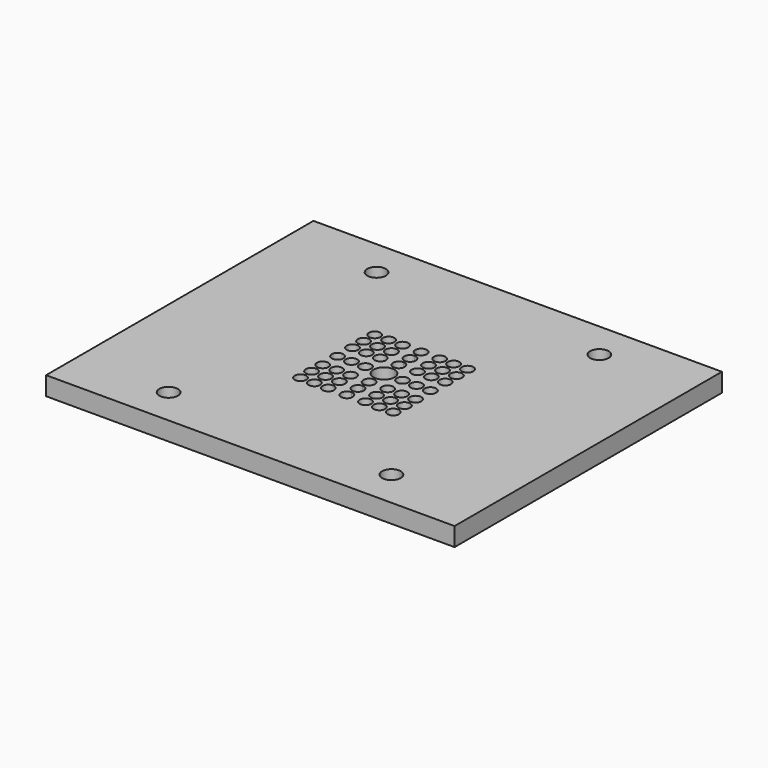
from build123d import *

# Parameters (mm, degrees)
F0_W     = 558.8
F0_H     = 457.2
F1_DEPTH = 25.4
F2_R     = 12.7
F3_DEPTH = 25.401
F4_R     = 7.9375
F4_R_2   = 14.2875
F5_DEPTH = 25.401
F7_R     = 7.9375
F7_R_2   = 4.7625
F8_DEPTH = 12.7


with BuildPart() as f1:
    # F0 (on Top) → F1 (new body)
    with BuildSketch(Plane.XY):
        Rectangle(F0_W, F0_H)
    extrude(amount=-F1_DEPTH)

    # F2 (on face) → F3 (cut, through all)
    with BuildSketch(Plane.XY):
        with BuildLine():
            ThreePointArc((-165.1, -177.8), (-152.4, -190.5), (-139.7, -177.8))
            ThreePointArc((-139.7, -177.8), (-152.4, -165.1), (-165.1, -177.8))
        make_face()
        with Locations((152.4, -177.8)):
            Circle(F2_R)
        with Locations((-152.4, 177.8)):
            Circle(F2_R)
        with Locations((152.4, 177.8)):
            Circle(F2_R)
    extrude(amount=-F3_DEPTH, mode=Mode.SUBTRACT)

    # F4 (on face) → F5 (cut, through all)
    with BuildSketch(Plane.XY):
        with Locations((25.4, 63.5)):
            Circle(F4_R)
        with Locations((25.4, 44.45)):
            Circle(F4_R)
        with Locations((25.4, 25.4)):
            Circle(F4_R)
        with Locations((44.45, 63.5)):
            Circle(F4_R)
        with Locations((63.5, 63.5)):
            Circle(F4_R)
        with Locations((44.45, 44.45)):
            Circle(F4_R)
        with Locations((63.5, 44.45)):
            Circle(F4_R)
        with Locations((44.45, 25.4)):
            Circle(F4_R)
        with Locations((63.5, 25.4)):
            Circle(F4_R)
        Circle(F4_R_2)
        with Locations((25.4, 0)):
            Circle(F4_R)
        with BuildLine():
            ThreePointArc((71.4375, 0), (63.5, 7.9375), (55.5625, 0))
            ThreePointArc((55.5625, 0), (63.5, -7.9375), (71.4375, 0))
        make_face()
        with BuildLine():
            ThreePointArc((52.3875, 0), (44.45, 7.9375), (36.5125, 0))
            Line((36.5125, 0), (52.3875, 0))
        make_face()
        with BuildLine():
            Line((52.3875, 0), (36.5125, 0))
            ThreePointArc((36.5125, 0), (44.45, -7.9375), (52.3875, 0))
        make_face()
        with BuildLine():
            ThreePointArc((0, 33.3375), (-5.61266, 19.78734), (7.9375, 25.4))
            ThreePointArc((7.9375, 25.4), (5.61266, 31.01266), (0, 33.3375))
        make_face()
        with BuildLine():
            ThreePointArc((7.9375, 63.5), (-5.61266, 69.11266), (0, 55.5625))
            ThreePointArc((0, 55.5625), (5.61266, 57.88734), (7.9375, 63.5))
        make_face()
        with BuildLine():
            ThreePointArc((0, 52.3875), (-7.9375, 44.45), (0, 36.5125))
            Line((0, 36.5125), (0, 52.3875))
        make_face()
        with BuildLine():
            Line((0, 52.3875), (0, 36.5125))
            ThreePointArc((0, 36.5125), (5.61266, 38.83734), (7.9375, 44.45))
            ThreePointArc((7.9375, 44.45), (5.61266, 50.06266), (0, 52.3875))
        make_face()
        with Locations((-25.4, 44.45)):
            Circle(F4_R)
        with Locations((-25.4, 63.5)):
            Circle(F4_R)
        with Locations((-44.45, 63.5)):
            Circle(F4_R)
        with Locations((-63.5, 63.5)):
            Circle(F4_R)
        with Locations((-63.5, 44.45)):
            Circle(F4_R)
        with Locations((-63.5, 25.4)):
            Circle(F4_R)
        with Locations((-44.45, 25.4)):
            Circle(F4_R)
        with Locations((-25.4, 25.4)):
            Circle(F4_R)
        with Locations((-44.45, 44.45)):
            Circle(F4_R)
        with BuildLine():
            ThreePointArc((7.9375, -25.4), (-5.61266, -19.78734), (0, -33.3375))
            ThreePointArc((0, -33.3375), (5.61266, -31.01266), (7.9375, -25.4))
        make_face()
        with BuildLine():
            ThreePointArc((0, -36.5125), (-7.9375, -44.45), (0, -52.3875))
            Line((0, -52.3875), (0, -36.5125))
        make_face()
        with BuildLine():
            Line((0, -36.5125), (0, -52.3875))
            ThreePointArc((0, -52.3875), (5.61266, -50.06266), (7.9375, -44.45))
            ThreePointArc((7.9375, -44.45), (5.61266, -38.83734), (0, -36.5125))
        make_face()
        with BuildLine():
            ThreePointArc((7.9375, -63.5), (5.61266, -57.88734), (0, -55.5625))
            ThreePointArc((0, -55.5625), (-5.61266, -69.11266), (7.9375, -63.5))
        make_face()
        with Locations((-25.4, -25.4)):
            Circle(F4_R)
        with Locations((-63.5, -44.45)):
            Circle(F4_R)
        with Locations((-44.45, -63.5)):
            Circle(F4_R)
        with Locations((-25.4, -63.5)):
            Circle(F4_R)
        with Locations((-25.4, -44.45)):
            Circle(F4_R)
        with Locations((-63.5, -63.5)):
            Circle(F4_R)
        with Locations((-44.45, -25.4)):
            Circle(F4_R)
        with Locations((25.4, -63.5)):
            Circle(F4_R)
        with Locations((25.4, -44.45)):
            Circle(F4_R)
        with Locations((-63.5, -25.4)):
            Circle(F4_R)
        with Locations((25.4, -25.4)):
            Circle(F4_R)
        with Locations((44.45, -63.5)):
            Circle(F4_R)
        with Locations((63.5, -63.5)):
            Circle(F4_R)
        with Locations((44.45, -44.45)):
            Circle(F4_R)
        with Locations((63.5, -44.45)):
            Circle(F4_R)
        with Locations((-44.45, -44.45)):
            Circle(F4_R)
        with Locations((44.45, -25.4)):
            Circle(F4_R)
        with Locations((63.5, -25.4)):
            Circle(F4_R)
        with Locations((-25.4, 0)):
            Circle(F4_R)
        with Locations((-44.45, 0)):
            Circle(F4_R)
        with Locations((-63.5, 0)):
            Circle(F4_R)
    extrude(amount=-F5_DEPTH, mode=Mode.SUBTRACT)

    # F7 (on offset) → F8 (join)
    with BuildSketch(Plane.XY.offset(-12.7)):
        with Locations((63.5, 63.5)):
            Circle(F7_R)
        with Locations((63.5, 63.5)):
            Circle(F7_R_2, mode=Mode.SUBTRACT)
        with Locations((63.5, 44.45)):
            Circle(F7_R)
        with Locations((63.5, 44.45)):
            Circle(F7_R_2, mode=Mode.SUBTRACT)
        with Locations((44.45, 44.45)):
            Circle(F7_R)
        with Locations((44.45, 44.45)):
            Circle(F7_R_2, mode=Mode.SUBTRACT)
        with Locations((44.45, 25.4)):
            Circle(F7_R)
        with Locations((44.45, 25.4)):
            Circle(F7_R_2, mode=Mode.SUBTRACT)
        with Locations((44.45, 63.5)):
            Circle(F7_R)
        with Locations((44.45, 63.5)):
            Circle(F7_R_2, mode=Mode.SUBTRACT)
        with Locations((25.4, 63.5)):
            Circle(F7_R)
        with Locations((25.4, 63.5)):
            Circle(F7_R_2, mode=Mode.SUBTRACT)
        with Locations((25.4, 44.45)):
            Circle(F7_R)
        with Locations((25.4, 44.45)):
            Circle(F7_R_2, mode=Mode.SUBTRACT)
        with Locations((25.4, 25.4)):
            Circle(F7_R)
        with Locations((25.4, 25.4)):
            Circle(F7_R_2, mode=Mode.SUBTRACT)
        with Locations((63.5, 25.4)):
            Circle(F7_R)
        with Locations((63.5, 25.4)):
            Circle(F7_R_2, mode=Mode.SUBTRACT)
        with BuildLine():
            ThreePointArc((68.2625, 0), (63.5, 4.7625), (58.7375, 0))
            ThreePointArc((58.7375, 0), (63.5, -4.7625), (68.2625, 0))
        make_face()
        with BuildLine():
            ThreePointArc((55.5625, 0), (63.5, -7.9375), (71.4375, 0))
            ThreePointArc((71.4375, 0), (63.5, 7.9375), (55.5625, 0))
        make_face()
        with BuildLine():
            ThreePointArc((68.2625, 0), (63.5, -4.7625), (58.7375, 0))
            ThreePointArc((58.7375, 0), (63.5, 4.7625), (68.2625, 0))
        make_face(mode=Mode.SUBTRACT)
        with Locations((25.4, 0)):
            Circle(F7_R_2)
        with Locations((25.4, 0)):
            Circle(F7_R)
        with Locations((25.4, 0)):
            Circle(F7_R_2, mode=Mode.SUBTRACT)
        with BuildLine():
            ThreePointArc((36.5125, 0), (44.45, -7.9375), (52.3875, 0))
            Line((52.3875, 0), (49.2125, 0))
            ThreePointArc((49.2125, 0), (44.45, -4.7625), (39.6875, 0))
            Line((39.6875, 0), (36.5125, 0))
        make_face()
        with BuildLine():
            Line((49.2125, 0), (52.3875, 0))
            ThreePointArc((52.3875, 0), (44.45, 7.9375), (36.5125, 0))
            Line((36.5125, 0), (39.6875, 0))
            ThreePointArc((39.6875, 0), (44.45, 4.7625), (49.2125, 0))
        make_face()
        with Locations((25.4, -25.4)):
            Circle(F7_R)
        with Locations((25.4, -25.4)):
            Circle(F7_R_2, mode=Mode.SUBTRACT)
        with Locations((44.45, -25.4)):
            Circle(F7_R)
        with Locations((44.45, -25.4)):
            Circle(F7_R_2, mode=Mode.SUBTRACT)
        with Locations((63.5, -25.4)):
            Circle(F7_R)
        with Locations((63.5, -25.4)):
            Circle(F7_R_2, mode=Mode.SUBTRACT)
        with Locations((63.5, -44.45)):
            Circle(F7_R)
        with Locations((63.5, -44.45)):
            Circle(F7_R_2, mode=Mode.SUBTRACT)
        with Locations((44.45, -44.45)):
            Circle(F7_R)
        with Locations((44.45, -44.45)):
            Circle(F7_R_2, mode=Mode.SUBTRACT)
        with Locations((25.4, -44.45)):
            Circle(F7_R)
        with Locations((25.4, -44.45)):
            Circle(F7_R_2, mode=Mode.SUBTRACT)
        with Locations((25.4, -63.5)):
            Circle(F7_R)
        with Locations((25.4, -63.5)):
            Circle(F7_R_2, mode=Mode.SUBTRACT)
        with Locations((44.45, -63.5)):
            Circle(F7_R)
        with Locations((44.45, -63.5)):
            Circle(F7_R_2, mode=Mode.SUBTRACT)
        with Locations((63.5, -63.5)):
            Circle(F7_R)
        with Locations((63.5, -63.5)):
            Circle(F7_R_2, mode=Mode.SUBTRACT)
        with Locations((0, -63.5)):
            Circle(F7_R)
        with Locations((0, -63.5)):
            Circle(F7_R_2, mode=Mode.SUBTRACT)
        with Locations((0, -44.45)):
            Circle(F7_R)
        with Locations((0, -44.45)):
            Circle(F7_R_2, mode=Mode.SUBTRACT)
        with Locations((0, -25.4)):
            Circle(F7_R)
        with Locations((0, -25.4)):
            Circle(F7_R_2, mode=Mode.SUBTRACT)
        with BuildLine():
            ThreePointArc((4.7625, 25.4), (3.367596, 28.767596), (0, 30.1625))
            ThreePointArc((0, 30.1625), (-3.367596, 22.032404), (4.7625, 25.4))
        make_face()
        with BuildLine():
            ThreePointArc((0, 33.3375), (-5.61266, 19.78734), (7.9375, 25.4))
            ThreePointArc((7.9375, 25.4), (5.61266, 31.01266), (0, 33.3375))
        make_face()
        with BuildLine():
            ThreePointArc((4.7625, 25.4), (-3.367596, 22.032404), (0, 30.1625))
            ThreePointArc((0, 30.1625), (3.367596, 28.767596), (4.7625, 25.4))
        make_face(mode=Mode.SUBTRACT)
        with BuildLine():
            ThreePointArc((4.7625, 63.5), (-3.367596, 66.867596), (0, 58.7375))
            ThreePointArc((0, 58.7375), (3.367596, 60.132404), (4.7625, 63.5))
        make_face()
        with BuildLine():
            ThreePointArc((7.9375, 63.5), (-5.61266, 69.11266), (0, 55.5625))
            ThreePointArc((0, 55.5625), (5.61266, 57.88734), (7.9375, 63.5))
        make_face()
        with BuildLine():
            ThreePointArc((4.7625, 63.5), (3.367596, 60.132404), (0, 58.7375))
            ThreePointArc((0, 58.7375), (-3.367596, 66.867596), (4.7625, 63.5))
        make_face(mode=Mode.SUBTRACT)
        with BuildLine():
            ThreePointArc((0, 52.3875), (-7.9375, 44.45), (0, 36.5125))
            Line((0, 36.5125), (0, 39.6875))
            ThreePointArc((0, 39.6875), (-4.7625, 44.45), (0, 49.2125))
            Line((0, 49.2125), (0, 52.3875))
        make_face()
        with BuildLine():
            Line((0, 39.6875), (0, 36.5125))
            ThreePointArc((0, 36.5125), (5.61266, 38.83734), (7.9375, 44.45))
            ThreePointArc((7.9375, 44.45), (5.61266, 50.06266), (0, 52.3875))
            Line((0, 52.3875), (0, 49.2125))
            ThreePointArc((0, 49.2125), (3.367596, 47.817596), (4.7625, 44.45))
            ThreePointArc((4.7625, 44.45), (3.367596, 41.082404), (0, 39.6875))
        make_face()
        with Locations((-25.4, 63.5)):
            Circle(F7_R)
        with Locations((-25.4, 63.5)):
            Circle(F7_R_2, mode=Mode.SUBTRACT)
        with Locations((-25.4, 44.45)):
            Circle(F7_R)
        with Locations((-25.4, 44.45)):
            Circle(F7_R_2, mode=Mode.SUBTRACT)
        with Locations((-25.4, 25.4)):
            Circle(F7_R)
        with Locations((-25.4, 25.4)):
            Circle(F7_R_2, mode=Mode.SUBTRACT)
        with Locations((-25.4, 0)):
            Circle(F7_R)
        with Locations((-25.4, 0)):
            Circle(F7_R_2, mode=Mode.SUBTRACT)
        with Locations((-25.4, -25.4)):
            Circle(F7_R)
        with Locations((-25.4, -25.4)):
            Circle(F7_R_2, mode=Mode.SUBTRACT)
        with Locations((-25.4, -44.45)):
            Circle(F7_R)
        with Locations((-25.4, -44.45)):
            Circle(F7_R_2, mode=Mode.SUBTRACT)
        with Locations((-25.4, -63.5)):
            Circle(F7_R)
        with Locations((-25.4, -63.5)):
            Circle(F7_R_2, mode=Mode.SUBTRACT)
        with Locations((-44.45, -63.5)):
            Circle(F7_R)
        with Locations((-44.45, -63.5)):
            Circle(F7_R_2, mode=Mode.SUBTRACT)
        with Locations((-44.45, -44.45)):
            Circle(F7_R)
        with Locations((-44.45, -44.45)):
            Circle(F7_R_2, mode=Mode.SUBTRACT)
        with Locations((-44.45, -25.4)):
            Circle(F7_R)
        with Locations((-44.45, -25.4)):
            Circle(F7_R_2, mode=Mode.SUBTRACT)
        with Locations((-44.45, 0)):
            Circle(F7_R)
        with Locations((-44.45, 0)):
            Circle(F7_R_2, mode=Mode.SUBTRACT)
        with Locations((-44.45, 25.4)):
            Circle(F7_R)
        with Locations((-44.45, 25.4)):
            Circle(F7_R_2, mode=Mode.SUBTRACT)
        with Locations((-44.45, 44.45)):
            Circle(F7_R)
        with Locations((-44.45, 44.45)):
            Circle(F7_R_2, mode=Mode.SUBTRACT)
        with Locations((-44.45, 63.5)):
            Circle(F7_R)
        with Locations((-44.45, 63.5)):
            Circle(F7_R_2, mode=Mode.SUBTRACT)
        with Locations((-63.5, 63.5)):
            Circle(F7_R)
        with Locations((-63.5, 63.5)):
            Circle(F7_R_2, mode=Mode.SUBTRACT)
        with Locations((-63.5, 44.45)):
            Circle(F7_R)
        with Locations((-63.5, 44.45)):
            Circle(F7_R_2, mode=Mode.SUBTRACT)
        with Locations((-63.5, 25.4)):
            Circle(F7_R)
        with Locations((-63.5, 25.4)):
            Circle(F7_R_2, mode=Mode.SUBTRACT)
        with Locations((-63.5, 0)):
            Circle(F7_R)
        with Locations((-63.5, 0)):
            Circle(F7_R_2, mode=Mode.SUBTRACT)
        with Locations((-63.5, -25.4)):
            Circle(F7_R)
        with Locations((-63.5, -25.4)):
            Circle(F7_R_2, mode=Mode.SUBTRACT)
        with Locations((-63.5, -44.45)):
            Circle(F7_R)
        with Locations((-63.5, -44.45)):
            Circle(F7_R_2, mode=Mode.SUBTRACT)
        with Locations((-63.5, -63.5)):
            Circle(F7_R)
        with Locations((-63.5, -63.5)):
            Circle(F7_R_2, mode=Mode.SUBTRACT)
    extrude(amount=-F8_DEPTH)


solid = f1.part
